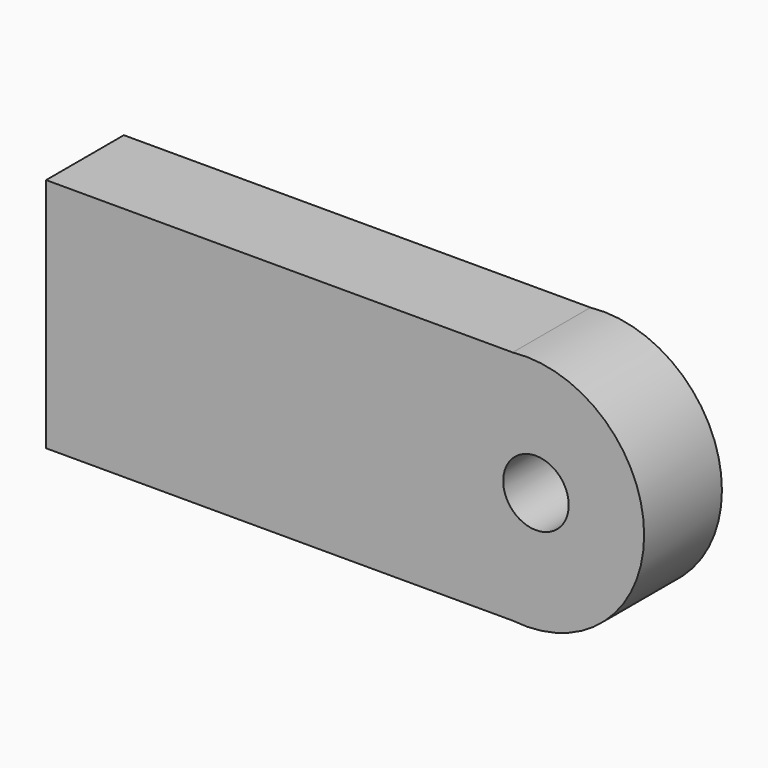
from build123d import *

# Parameters (mm, degrees)
F0_W     = 91.440002
F0_H     = 46.273064
F1_DEPTH = 19.05
F2_R     = 6.419279
F3_DEPTH = 70.358


with BuildPart() as f1:
    # F0 (on Front) → F1 (new body)
    with BuildSketch(Plane.XZ):
        with Locations((-15.024918, -0.368711)):
            Rectangle(F0_W, F0_H)
        with BuildLine():
            Line((30.695083, 22.767821), (30.695083, -23.505243))
            ThreePointArc((30.695083, -23.505243), (56.461966, -0.368711), (30.695083, 22.767821))
        make_face()
    extrude(amount=F1_DEPTH)

    # F2 (on face) → F3 (cut)
    with BuildSketch(Plane.XZ.offset(19.05)):
        with Locations((35.259977, 0)):
            Circle(F2_R)
    extrude(amount=-F3_DEPTH, mode=Mode.SUBTRACT)


solid = f1.part
